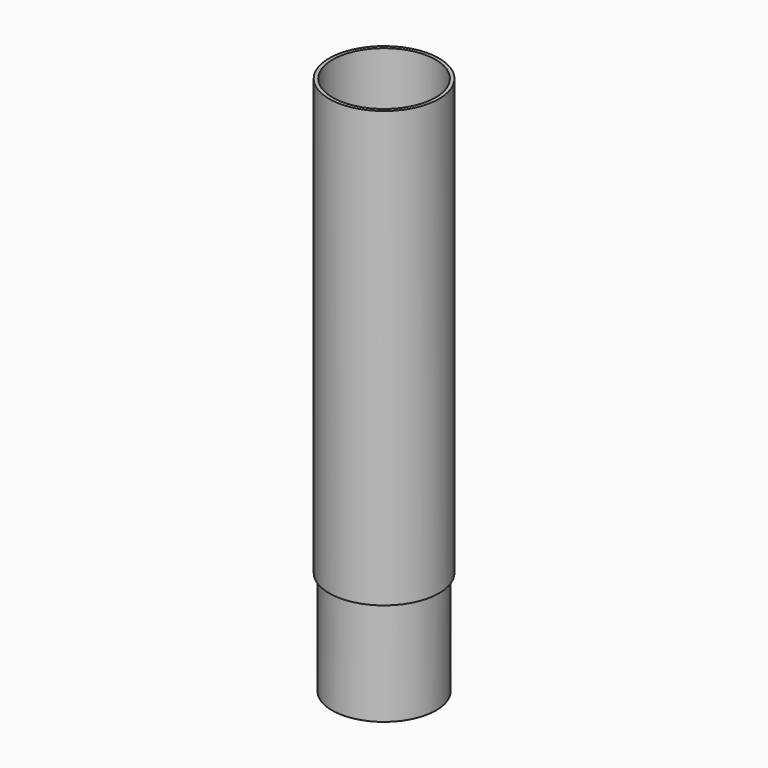
from build123d import *

# Parameters (mm, degrees)
F0_R          = 29.05
F0_R_2        = 27.19
F1_DEPTH      = 230
F3_R          = 27.5
F3_R_2        = 26
F4_DEPTH      = 45
F4_DEPTH_BACK = 55


with BuildPart() as f1:
    # F0 (on Top) → F1 (new body)
    with BuildSketch(Plane.XY):
        Circle(F0_R)
        Circle(F0_R_2, mode=Mode.SUBTRACT)
    extrude(amount=F1_DEPTH)

    # F3 (on Top) → F4 (join, two sides)
    with BuildSketch(Plane.XY) as f4_sk:
        Circle(F3_R)
        Circle(F3_R_2, mode=Mode.SUBTRACT)
    extrude(amount=F4_DEPTH)
    extrude(f4_sk.sketch, amount=-F4_DEPTH_BACK)


solid = f1.part
